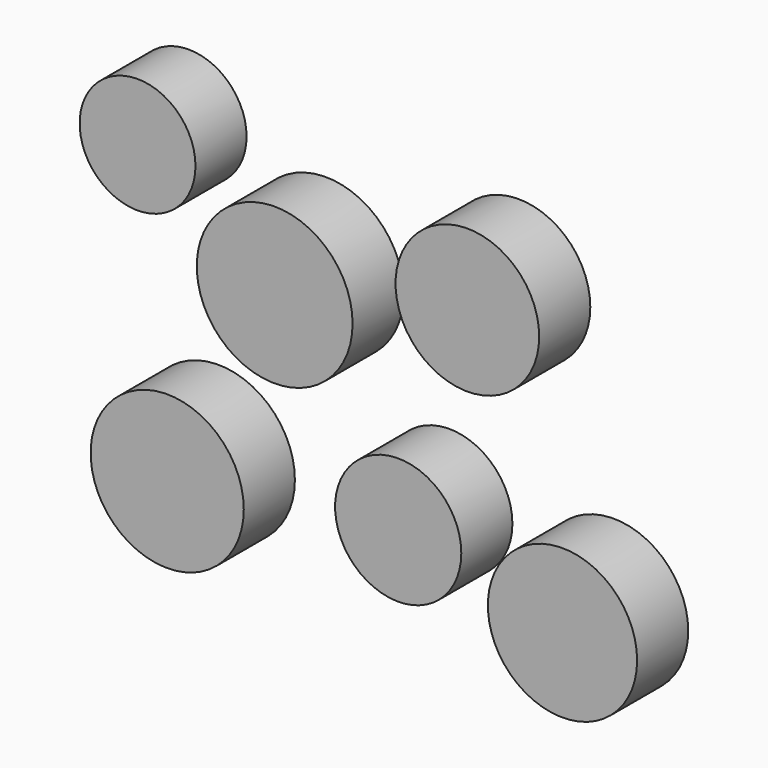
from build123d import *

# Parameters (mm, degrees)
F0_R     = 9.060957
F0_R_2   = 12.190942
F0_R_3   = 11.238741
F0_R_4   = 11.982241
F0_R_5   = 9.874074
F0_R_6   = 11.679004
F1_DEPTH = 10


with BuildPart() as f1:
    # F0 (on Front) → F1 (new body)
    with BuildSketch(Plane.XZ):
        with Locations((-39.428029, 30.908142)):
            Circle(F0_R)
        with Locations((-17.970371, 17.182969)):
            Circle(F0_R_2)
        with Locations((12.186334, 24.915461)):
            Circle(F0_R_3)
        with Locations((-34.788537, -13.940298)):
            Circle(F0_R_4)
        with Locations((1.360853, -8.91418)):
            Circle(F0_R_5)
        with Locations((27.071376, -14.713548)):
            Circle(F0_R_6)
    extrude(amount=F1_DEPTH)


solid = f1.part
